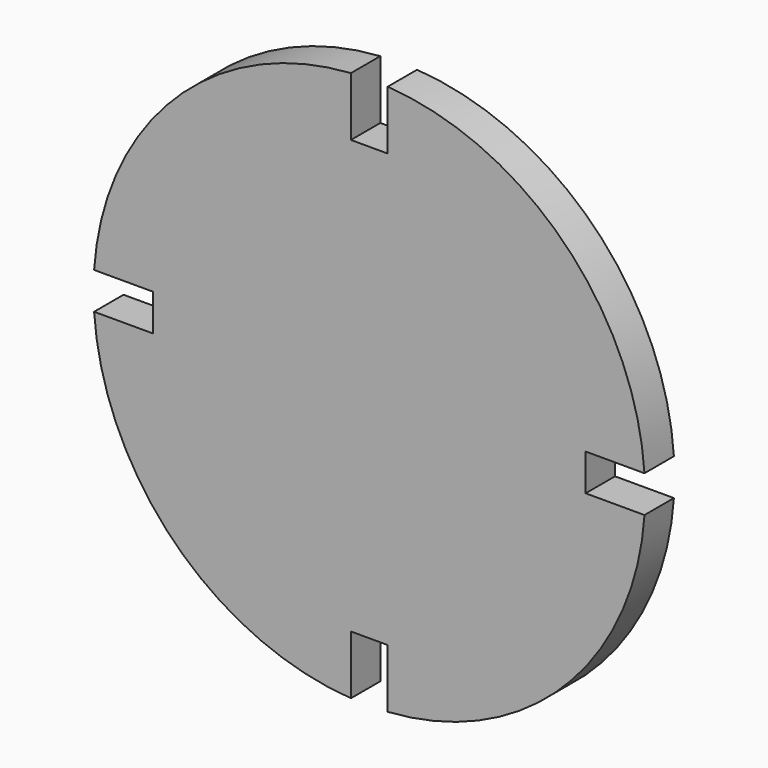
from build123d import *

# Parameters (mm, degrees)
F1_DEPTH = 0.635


with BuildPart() as f1:
    # F0 (on Front) → F1 (new body, symmetric)
    with BuildSketch(Plane.XZ):
        with BuildLine():
            Line((-0.635, 7.47181), (-0.635, 9.50381))
            ThreePointArc((-0.635, 9.50381), (-6.735192, 6.735192), (-9.50381, 0.635))
            Line((-9.50381, 0.635), (-7.47181, 0.635))
            Line((-7.47181, 0.635), (-7.47181, -0.635))
            Line((-7.47181, -0.635), (-9.50381, -0.635))
            ThreePointArc((-9.50381, -0.635), (-6.735192, -6.735192), (-0.635, -9.50381))
            Line((-0.635, -9.50381), (-0.635, -7.47181))
            Line((-0.635, -7.47181), (0.635, -7.47181))
            Line((0.635, -7.47181), (0.635, -9.50381))
            ThreePointArc((0.635, -9.50381), (6.735192, -6.735192), (9.50381, -0.635))
            Line((9.50381, -0.635), (7.47181, -0.635))
            Line((7.47181, -0.635), (7.47181, 0.635))
            Line((7.47181, 0.635), (9.50381, 0.635))
            ThreePointArc((9.50381, 0.635), (6.735192, 6.735192), (0.635, 9.50381))
            Line((0.635, 9.50381), (0.635, 7.47181))
            Line((0.635, 7.47181), (-0.635, 7.47181))
        make_face()
    extrude(amount=F1_DEPTH, both=True)


solid = f1.part
